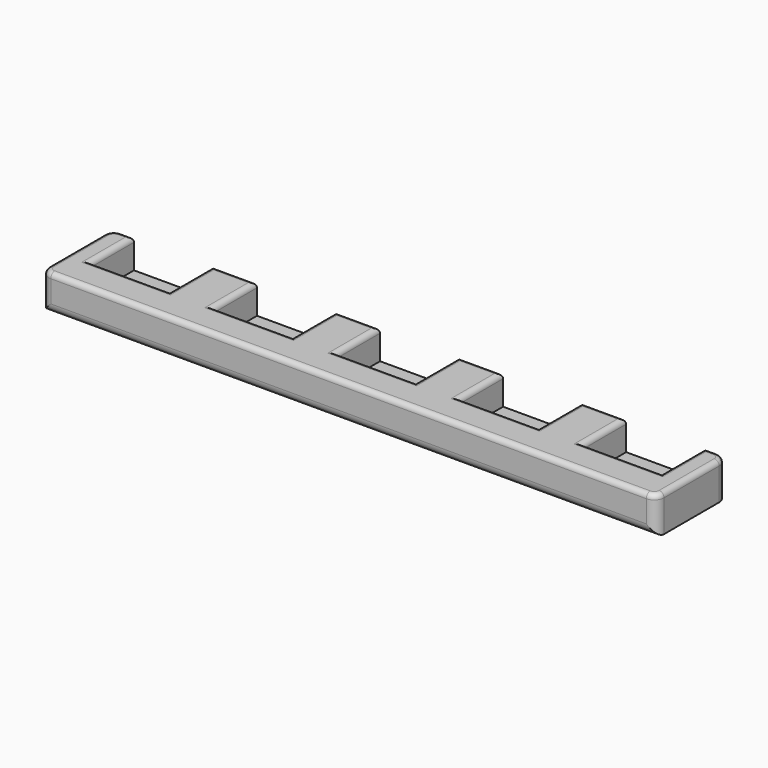
from build123d import *

# Parameters (mm, degrees)
F0_W     = 125
F0_H     = 18
F1_DEPTH = 7.5
F2_W     = 16
F2_H     = 11
F3_DEPTH = 6
F4_R     = 2
F5_R     = 1


with BuildPart() as f1:
    # F0 (on Top) → F1 (new body)
    with BuildSketch(Plane.XY):
        with Locations((-2.4749040604, 16.1338936687)):
            Rectangle(F0_W, F0_H)
    extrude(amount=-F1_DEPTH)

    # F2 (on Top) → F3 (cut)
    with BuildSketch(Plane.XY):
        with Locations((-52.4749040604, 19.6338936687)):
            Rectangle(F2_W, F2_H)
        with Locations((-27.4749040604, 19.6338936687)):
            Rectangle(F2_W, F2_H)
        with Locations((-2.4749040604, 19.6338936687)):
            Rectangle(F2_W, F2_H)
        with Locations((22.5250959396, 19.6338936687)):
            Rectangle(F2_W, F2_H)
        with Locations((47.5250959396, 19.6338936687)):
            Rectangle(F2_W, F2_H)
    extrude(amount=-F3_DEPTH, mode=Mode.SUBTRACT)

    # F4
    f4_edges = [f1.edges().sort_by_distance(p)[0] for p in [
        (60.025096, 25.133894, -3.75),
        (60.025096, 7.133894, -3.75),
        (-64.974904, 25.133894, -3.75),
        (-64.974904, 7.133894, -3.75),
        (-2.474904, 7.133894, -7.5),
    ]]
    fillet(f4_edges, radius=F4_R)

    # F5
    f5_edges = [f1.edges().sort_by_distance(p)[0] for p in [
        (60.025096, 16.133894, 0),
        (59.43931, 7.71968, 0),
        (59.43931, 24.548107, 0),
        (-2.474904, 7.133894, 0),
        (56.775096, 25.133894, 0),
        (-64.389118, 7.71968, 0),
        (55.525096, 19.633894, 0),
        (-64.974904, 16.133894, 0),
        (47.525096, 14.133894, 0),
        (-64.389118, 24.548107, 0),
        (39.525096, 19.633894, 0),
        (-61.724904, 25.133894, 0),
        (35.025096, 25.133894, 0),
        (-60.474904, 19.633894, 0),
        (30.525096, 19.633894, 0),
        (-52.474904, 14.133894, 0),
        (22.525096, 14.133894, 0),
        (-44.474904, 19.633894, 0),
        (14.525096, 19.633894, 0),
        (-39.974904, 25.133894, 0),
        (10.025096, 25.133894, 0),
        (-35.474904, 19.633894, 0),
        (5.525096, 19.633894, 0),
        (-27.474904, 14.133894, 0),
        (-2.474904, 14.133894, 0),
        (-19.474904, 19.633894, 0),
        (-10.474904, 19.633894, 0),
        (-14.974904, 25.133894, 0),
    ]]
    fillet(f5_edges, radius=F5_R)


solid = f1.part
